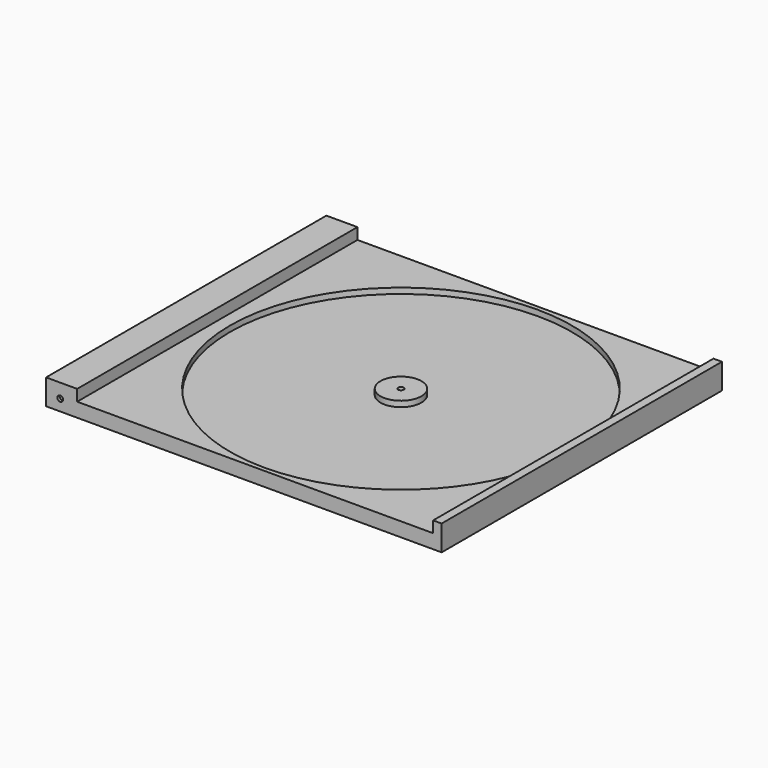
from build123d import *

# Parameters (mm, degrees)
F0_W     = 140
F0_H     = 124
F1_DEPTH = 5
F2_W     = 11
F2_H     = 124
F2_W_2   = 3
F3_DEPTH = 4
F4_R     = 60.5
F4_R_2   = 7.25
F4_R_3   = 1
F5_DEPTH = 2
F6_R     = 1
F7_DEPTH = 1
F8_R     = 1
F9_DEPTH = 1


with BuildPart() as f1:
    # F0 (on Top) → F1 (new body)
    with BuildSketch(Plane.XY):
        with Locations((2.145864, -1.898353)):
            Rectangle(F0_W, F0_H)
    extrude(amount=F1_DEPTH)

    # F2 (on face) → F3 (join)
    with BuildSketch(Plane.XY.offset(5)):
        with Locations((-62.354136, -1.898353)):
            Rectangle(F2_W, F2_H)
        with Locations((70.645864, -1.898353)):
            Rectangle(F2_W_2, F2_H)
    extrude(amount=F3_DEPTH)

    # F4 (on face) → F5 (cut)
    with BuildSketch(Plane.XY.offset(5)):
        with Locations((8.145864, -1.898353)):
            Circle(F4_R)
        with Locations((8.145864, -1.898353)):
            Circle(F4_R_2, mode=Mode.SUBTRACT)
        with Locations((8.145864, -1.898353)):
            Circle(F4_R_3)
    extrude(amount=-F5_DEPTH, mode=Mode.SUBTRACT)

    # F6 (on face) → F7 (cut)
    with BuildSketch(Plane.XZ.offset(63.898353)):
        with Locations((-62.854134, 4)):
            Circle(F6_R)
    extrude(amount=-F7_DEPTH, mode=Mode.SUBTRACT)

    # F8 (on face) → F9 (cut)
    with BuildSketch(Plane(origin=(0, 60.101647, 0), x_dir=(-1, 0, 0), z_dir=(0, 1, 0))):
        with Locations((62.854136, 4)):
            Circle(F8_R)
    extrude(amount=-F9_DEPTH, mode=Mode.SUBTRACT)


solid = f1.part
